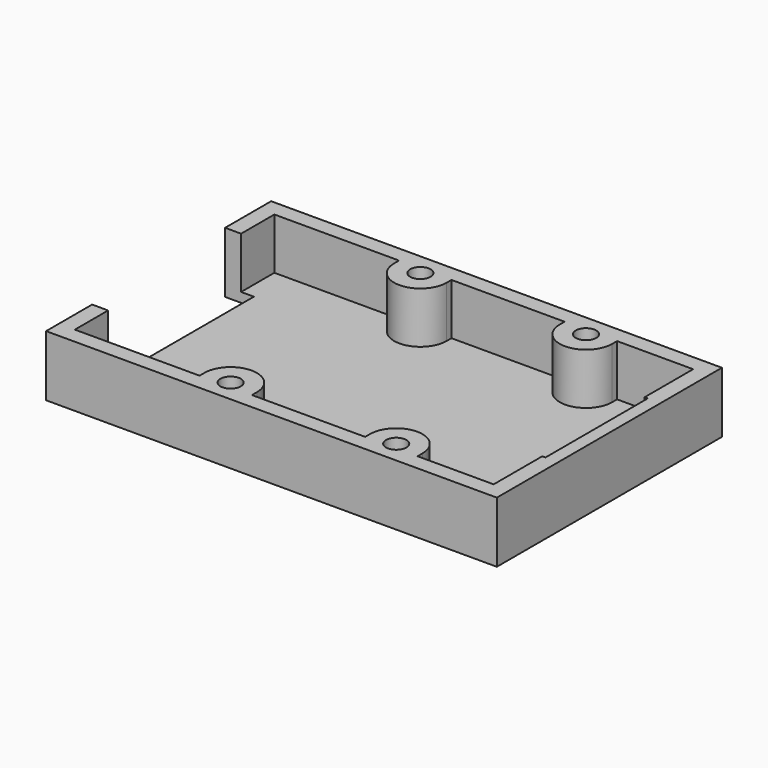
from build123d import *

# Parameters (mm, degrees)
SKETCH_W                = 70.5
SKETCH_H                = 44
PAD_DEPTH               = 9.525
SKETCH001_R             = 1.6
POCKET_DEPTH            = 176.821853
SKETCH001_MIRRORED_2_R  = 1.6
POCKET_MIRRORED_2_DEPTH = 176.821853
POCKET001_DEPTH         = 8.025
SKETCH003_W             = 4.5
SKETCH003_H             = 26
POCKET002_DEPTH         = 9.526


with BuildPart() as part:
    # Sketch → Pad (new body)
    with BuildSketch(Plane.XY):
        with Locations((-3.8, 0)):
            Rectangle(SKETCH_W, SKETCH_H)
    extrude(amount=-PAD_DEPTH)

    # Sketch001 (on Face5 of Pad) → Pocket (cut, through all)
    with BuildSketch(Plane.XY):
        with Locations((-12.95, 18.55)):
            Circle(SKETCH001_R)
    pocket = extrude(amount=-POCKET_DEPTH, mode=Mode.SUBTRACT)

    # Sketch001 Mirrored 2 → Pocket Mirrored 2 (cut, through all)
    with BuildSketch(Plane(origin=(0, 0, 0), x_dir=(-1, 0, 0), z_dir=(0, 0, -1))):
        with Locations((-12.95, 18.55)):
            Circle(SKETCH001_MIRRORED_2_R)
    pocket_mirrored_2 = extrude(amount=POCKET_MIRRORED_2_DEPTH, mode=Mode.SUBTRACT)

    # Mirrored001: Pocket, Pocket Mirrored 2 across XZ
    add(pocket.mirror(Plane.XZ), mode=Mode.SUBTRACT)
    add(pocket_mirrored_2.mirror(Plane.XZ), mode=Mode.SUBTRACT)

    # Sketch002 (on Face4 of MultiTransform) → Pocket001 (cut)
    with BuildSketch(Plane.XY):
        with BuildLine():
            Line((29.45, -10), (29.45, 10))
            Line((29.45, 10), (28.95, 10))
            Line((28.95, 10), (28.95, 19.5))
            Line((28.95, 19.5), (17.05, 19.5))
            Line((17.05, 19.5), (17.05, 18.55))
            ThreePointArc((8.85, 18.55), (12.95, 14.45), (17.05, 18.55))
            Line((8.85, 19.5), (8.85, 18.55))
            Line((8.85, 19.5), (-8.85, 19.5))
            Line((-8.85, 19.5), (-8.85, 18.55))
            ThreePointArc((-17.05, 18.55), (-12.95, 14.45), (-8.85, 18.55))
            Line((-17.05, 19.5), (-17.05, 18.55))
            Line((-17.05, 19.5), (-36.55, 19.5))
            Line((-36.55, 19.5), (-36.55, -19.5))
            Line((-36.55, -19.5), (-17.05, -19.5))
            Line((-17.05, -19.5), (-17.05, -18.549995))
            ThreePointArc((-8.85, -18.549995), (-12.95, -14.45), (-17.05, -18.549995))
            Line((-8.85, -19.5), (-8.85, -18.549995))
            Line((8.85, -19.5), (-8.85, -19.5))
            Line((8.85, -19.5), (8.85, -18.549999))
            ThreePointArc((17.05, -18.55), (12.95, -14.45), (8.85, -18.549999))
            Line((17.05, -19.5), (17.05, -18.55))
            Line((17.05, -19.5), (28.95, -19.5))
            Line((28.95, -19.5), (28.95, -10))
            Line((28.95, -10), (29.45, -10))
        make_face()
    extrude(amount=-POCKET001_DEPTH, mode=Mode.SUBTRACT)

    # Sketch003 (on Face5 of Pocket001) → Pocket002 (cut, through all)
    with BuildSketch(Plane(origin=(0, 0, -9.525), x_dir=(1, 0, 0), z_dir=(0, 0, -1))):
        with Locations((-36.8, 0)):
            Rectangle(SKETCH003_W, SKETCH003_H)
    extrude(amount=-POCKET002_DEPTH, mode=Mode.SUBTRACT)


solid = part.part
